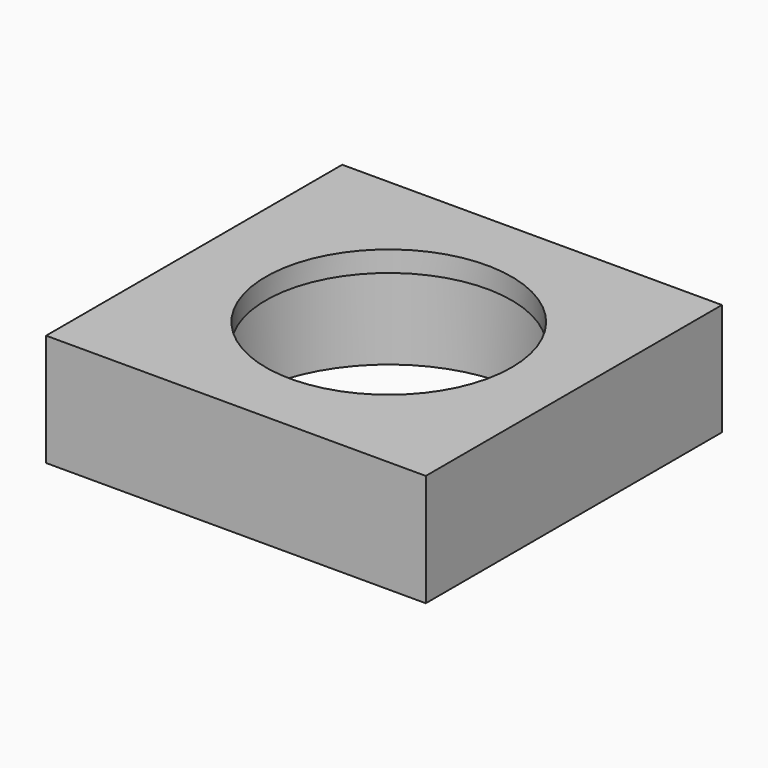
from build123d import *

# Parameters (mm, degrees)
F0_R     = 11
F1_DEPTH = 7
F2_W     = 29.0801070888
F2_H     = 28.3500068
F2_R     = 11
F2_R_2   = 9.4125034
F3_DEPTH = 1.5875
F4_R     = 1.7272
F5_DEPTH = 3.175


with BuildPart() as f1:
    # F0 (on Top) → F1 (new body)
    with BuildSketch(Plane.XY):
        Polygon((14.1750034, 14.1750034), (0, 14.1750034), (-14.9051036888, 14.1750034), (-14.9051036888, -14.1750034), (0, -14.1750034), (14.1750034, -14.1750034), align=None)
        Circle(F0_R, mode=Mode.SUBTRACT)
    extrude(amount=F1_DEPTH)

    # F2 (on face) → F3 (join)
    with BuildSketch(Plane.XY.offset(7)):
        with Locations((-0.3650501444, 0)):
            Rectangle(F2_W, F2_H)
        Circle(F2_R, mode=Mode.SUBTRACT)
        Circle(F2_R)
        Circle(F2_R_2, mode=Mode.SUBTRACT)
    extrude(amount=F3_DEPTH)

    # F4 (on face) → F5 (cut)
    with BuildSketch(Plane(origin=(-14.9051036888, 0, 0), x_dir=(0, -1, 0), z_dir=(-1, 0, 0))):
        with Locations((10.2062534, 3.96875)):
            Circle(F4_R)
        with Locations((-10.2062534, 3.96875)):
            Circle(F4_R)
    extrude(amount=-F5_DEPTH, mode=Mode.SUBTRACT)


solid = f1.part
